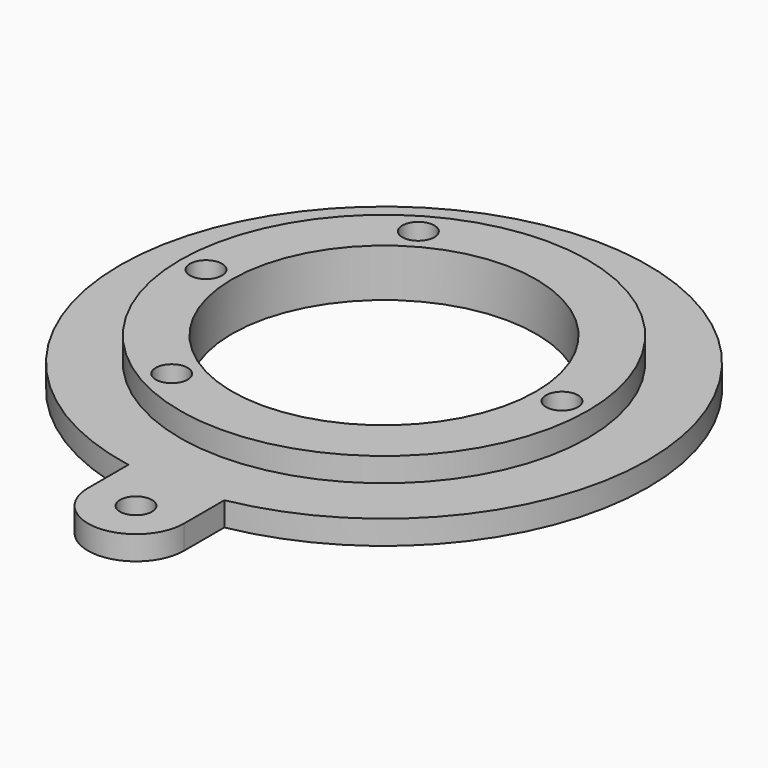
from build123d import *

# Parameters (mm, degrees)
SKETCH010_R     = 25.5
SKETCH010_R_2   = 19
PAD005_DEPTH    = 3
SKETCH011_R     = 19
SKETCH011_R_2   = 2
PAD006_DEPTH    = 3
SKETCH012_R     = 2
POCKET002_DEPTH = 6.001


with BuildPart() as part:
    # Sketch010 → Pad005 (new body)
    with BuildSketch(Plane.XY):
        Circle(SKETCH010_R)
        Circle(SKETCH010_R_2, mode=Mode.SUBTRACT)
    extrude(amount=PAD005_DEPTH)

    # Sketch011 (on Face3 of Pad005) → Pad006 (join)
    with BuildSketch(Plane(origin=(0, 0, 0), x_dir=(1, 0, 0), z_dir=(0, 0, -1))):
        with BuildLine():
            ThreePointArc((-6, 32.449961), (0, -33), (6, 32.449961))
            Line((6, 38.756679), (6, 32.449961))
            ThreePointArc((6, 38.756679), (-1.5e-05, 44.756648), (-6, 38.756648))
            Line((-6, 32.449961), (-6, 38.756648))
        make_face()
        Circle(SKETCH011_R, mode=Mode.SUBTRACT)
        with Locations((0, 38.756648)):
            Circle(SKETCH011_R_2, mode=Mode.SUBTRACT)
    extrude(amount=PAD006_DEPTH)

    # Sketch012 (on Face3 of Pad006) → Pocket002 (cut, through all)
    with BuildSketch(Plane.XY.offset(3)):
        with Locations((-22.25, 0)):
            Circle(SKETCH012_R)
        with Locations((22.25, 0)):
            Circle(SKETCH012_R)
        with Locations((-11.125, 19.269065)):
            Circle(SKETCH012_R)
        with Locations((-11.125, -19.269065)):
            Circle(SKETCH012_R)
    extrude(amount=-POCKET002_DEPTH, mode=Mode.SUBTRACT)


solid = part.part
